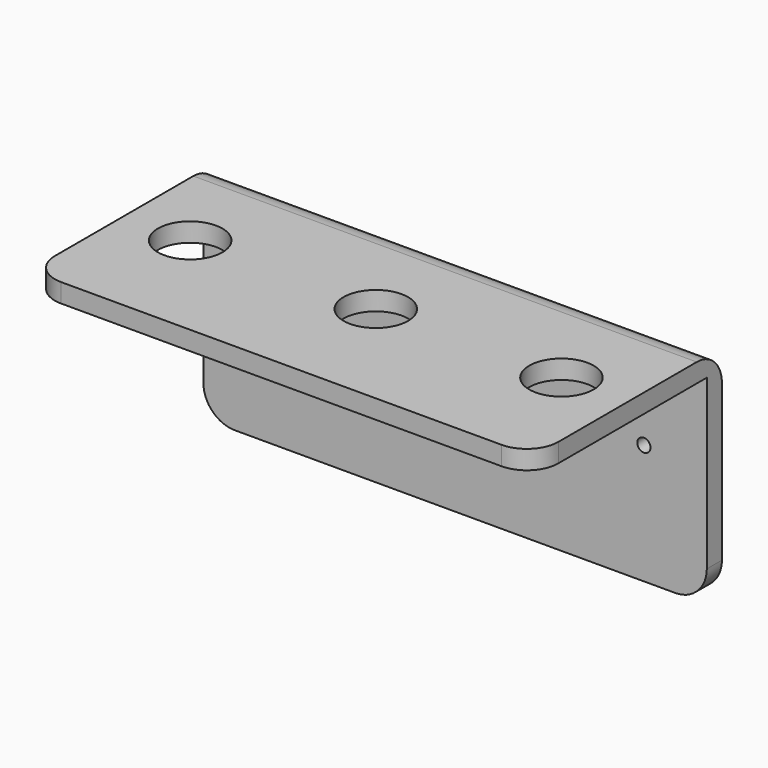
from build123d import *

# Parameters (mm, degrees)
F0_W     = 160
F0_H     = 75
F0_R     = 10.25
F1_DEPTH = 6
F2_W     = 160
F2_H     = 63.5
F3_DEPTH = 6
F4_R     = 10
F5_R     = 2.1
F6_DEPTH = 25


with BuildPart() as f1:
    # F0 (on Top) → F1 (new body)
    with BuildSketch(Plane.XY):
        Rectangle(F0_W, F0_H)
        with Locations((-59, 0)):
            Circle(F0_R, mode=Mode.SUBTRACT)
        Circle(F0_R, mode=Mode.SUBTRACT)
        with Locations((59, 0)):
            Circle(F0_R, mode=Mode.SUBTRACT)
    extrude(amount=F1_DEPTH)

    # F2 (on face) → F3 (join)
    with BuildSketch(Plane(origin=(0, 37.5, 0), x_dir=(-1, 0, 0), z_dir=(0, 1, 0))):
        with Locations((0, -31.75)):
            Rectangle(F2_W, F2_H)
    extrude(amount=-F3_DEPTH)

    # F4
    f4_edges = [f1.edges().sort_by_distance(p)[0] for p in [
        (0, 37.5, 6),
        (-80, 34.5, -63.5),
        (80, 34.5, -63.5),
        (80, -37.5, 3),
        (-80, -37.5, 3),
    ]]
    fillet(f4_edges, radius=F4_R)

    # F5 (on face) → F6 (cut)
    with BuildSketch(Plane.XZ.offset(-31.5)):
        with Locations((-60, -25.4)):
            Circle(F5_R)
        with Locations((-40, -25.4)):
            Circle(F5_R)
        with Locations((-20, -25.4)):
            Circle(F5_R)
        with Locations((0, -25.4)):
            Circle(F5_R)
        with Locations((20, -25.4)):
            Circle(F5_R)
        with Locations((40, -25.4)):
            Circle(F5_R)
        with Locations((60, -25.4)):
            Circle(F5_R)
    extrude(amount=-F6_DEPTH, mode=Mode.SUBTRACT)


solid = f1.part
